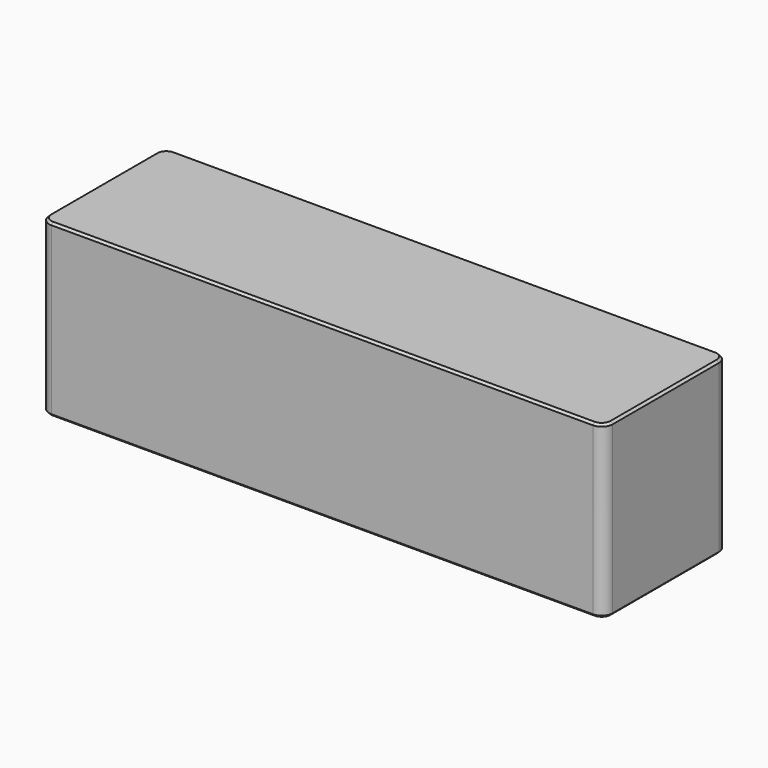
from build123d import *

# Parameters (mm, degrees)
F0_W     = 51
F0_H     = 14
F1_DEPTH = 15.45
F2_R     = 1
F3_SIZE  = 0.2


with BuildPart() as f1:
    # F0 (on Top) → F1 (new body)
    with BuildSketch(Plane.XY):
        Rectangle(F0_W, F0_H)
    extrude(amount=F1_DEPTH)

    # F2
    f2_edges = [f1.edges().sort_by_distance(p)[0] for p in [
        (-25.5, -7, 7.725),
        (25.5, -7, 7.725),
        (-25.5, 7, 7.725),
        (25.5, 7, 7.725),
    ]]
    fillet(f2_edges, radius=F2_R)

    # F3
    f3_edges = [f1.edges().sort_by_distance(p)[0] for p in [
        (0, 7, 15.45),
        (25.207107, 6.707107, 15.45),
        (-25.207107, 6.707107, 15.45),
        (25.5, 0, 15.45),
        (-25.5, 0, 15.45),
        (25.207107, -6.707107, 15.45),
        (-25.207107, -6.707107, 15.45),
        (0, -7, 15.45),
        (0, 7, 0),
        (25.207107, 6.707107, 0),
        (-25.207107, 6.707107, 0),
        (25.5, 0, 0),
        (-25.5, 0, 0),
        (25.207107, -6.707107, 0),
        (-25.207107, -6.707107, 0),
        (0, -7, 0),
    ]]
    chamfer(f3_edges, length=F3_SIZE)


solid = f1.part
